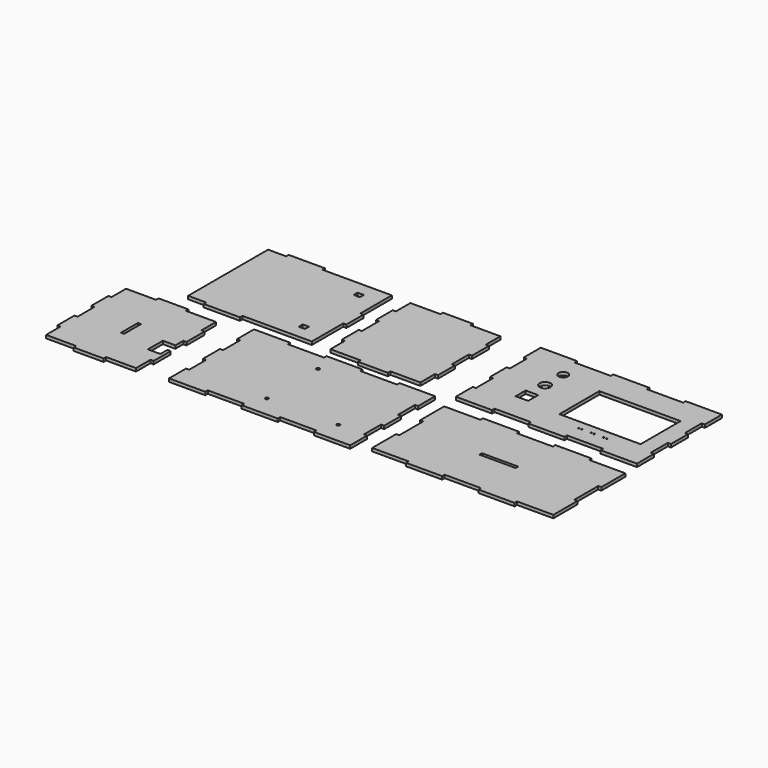
from build123d import *

# Parameters (mm, degrees)
F0_W      = 12.7
F0_H      = 12.7
F0_R      = 0.635
F0_W_2    = 82.55
F0_H_2    = 50.8
F0_R_2    = 4.7625
F1_DEPTH  = 3.175
F3_DEPTH  = 3.175
F5_DEPTH  = 3.175
F6_R      = 1.5875
F7_DEPTH  = 3.175
F8_W      = 6.35
F8_H      = 5.08
F9_DEPTH  = 3.175
F10_W     = 3.175
F10_H     = 21.59
F11_DEPTH = 3.175


with BuildPart() as f1:
    # F0 (on Top) → F1 (new body)
    with BuildSketch(Plane.XY):
        Polygon((0, 40.005), (0, 18.415), (-3.175, 18.415), (-3.175, -3.175), (33.655, -3.175), (33.655, 0), (70.485, 0), (70.485, -3.175), (107.315, -3.175), (107.315, 0), (144.145, 0), (144.145, -3.175), (180.975, -3.175), (180.975, 18.415), (177.8, 18.415), (177.8, 40.005), (180.975, 40.005), (180.975, 61.595), (177.8, 61.595), (177.8, 83.185), (180.975, 83.185), (180.975, 104.775), (144.145, 104.775), (144.145, 101.6), (107.315, 101.6), (107.315, 104.775), (70.485, 104.775), (70.485, 101.6), (33.655, 101.6), (33.655, 104.775), (-3.175, 104.775), (-3.175, 83.185), (0, 83.185), (0, 61.595), (-3.175, 61.595), (-3.175, 40.005), align=None)
        with Locations((39.8253654897, 33.447625649)):
            Rectangle(F0_W, F0_H, mode=Mode.SUBTRACT)
        with Locations((106.7751194119, 15.4237598181)):
            Circle(F0_R, mode=Mode.SUBTRACT)
        with BuildLine():
            ThreePointArc((110.5851194119, 15.4237598181), (109.9501194119, 14.7887598181), (109.3151194119, 15.4237598181))
            ThreePointArc((109.3151194119, 15.4237598181), (109.9501194119, 16.0587598181), (110.5851194119, 15.4237598181))
        make_face(mode=Mode.SUBTRACT)
        with BuildLine():
            ThreePointArc((118.8401194119, 15.4237598181), (119.4751194119, 16.0587598181), (120.1101194119, 15.4237598181))
            ThreePointArc((120.1101194119, 15.4237598181), (119.4751194119, 14.7887598181), (118.8401194119, 15.4237598181))
        make_face(mode=Mode.SUBTRACT)
        with BuildLine():
            ThreePointArc((123.2851194119, 15.4237598181), (122.6501194119, 14.7887598181), (122.0151194119, 15.4237598181))
            ThreePointArc((122.0151194119, 15.4237598181), (122.6501194119, 16.0587598181), (123.2851194119, 15.4237598181))
        make_face(mode=Mode.SUBTRACT)
        with BuildLine():
            ThreePointArc((131.5401194119, 15.4237598181), (132.1751194119, 16.0587598181), (132.8101194119, 15.4237598181))
            ThreePointArc((132.8101194119, 15.4237598181), (132.1751194119, 14.7887598181), (131.5401194119, 15.4237598181))
        make_face(mode=Mode.SUBTRACT)
        with BuildLine():
            ThreePointArc((134.7151194119, 15.4237598181), (135.3501194119, 16.0587598181), (135.9851194119, 15.4237598181))
            ThreePointArc((135.9851194119, 15.4237598181), (135.3501194119, 14.7887598181), (134.7151194119, 15.4237598181))
        make_face(mode=Mode.SUBTRACT)
        with Locations((121.0626194119, 50.1308102608)):
            Rectangle(F0_W_2, F0_H_2, mode=Mode.SUBTRACT)
        with BuildLine():
            ThreePointArc((39.8253654897, 62.1293686211), (43.7542275427, 60.5019806741), (45.3816154897, 56.5731186211))
            ThreePointArc((45.3816154897, 56.5731186211), (35.8965034368, 52.6442565681), (39.8253654897, 62.1293686211))
        make_face(mode=Mode.SUBTRACT)
        with Locations((39.8253654897, 79.6093419194)):
            Circle(F0_R_2, mode=Mode.SUBTRACT)
    extrude(amount=F1_DEPTH)


with BuildPart() as f3:
    # F2 (on Top) → F3 (new body)
    with BuildSketch(Plane.XY):
        Polygon((73.66, -18.7735741109), (36.83, -18.7735741109), (36.83, -21.9485741109), (0, -21.9485741109), (0, -52.4285741109), (3.175, -52.4285741109), (3.175, -82.9085741109), (0, -82.9085741109), (0, -113.3885741109), (36.83, -113.3885741109), (36.83, -116.5635741109), (73.66, -116.5635741109), (73.66, -113.3885741109), (110.49, -113.3885741109), (110.49, -116.5635741109), (147.32, -116.5635741109), (147.32, -113.3885741109), (184.15, -113.3885741109), (184.15, -82.9085741109), (180.975, -82.9085741109), (180.975, -52.4285741109), (184.15, -52.4285741109), (184.15, -21.9485741109), (147.32, -21.9485741109), (147.32, -18.7735741109), (110.49, -18.7735741109), (110.49, -21.9485741109), (73.66, -21.9485741109), align=None)
        Polygon((73.66, -69.2560741109), (73.66, -67.6685741109), (73.66, -66.0810741109), (110.49, -66.0810741109), (110.49, -69.2560741109), align=None, mode=Mode.SUBTRACT)
    extrude(amount=F3_DEPTH)


with BuildPart() as f5:
    # F4 (on Top) → F5 (new body)
    with BuildSketch(Plane.XY):
        Polygon((-41.0954638672, 64.77), (-41.0954638672, 86.36), (-44.2704638672, 86.36), (-44.2704638672, 104.775), (-74.7504638672, 104.775), (-74.7504638672, 107.95), (-105.2304638672, 107.95), (-105.2304638672, 104.775), (-135.7104638672, 104.775), (-135.7104638672, 86.36), (-138.8854638672, 86.36), (-138.8854638672, 64.77), (-135.7104638672, 64.77), (-135.7104638672, 43.18), (-138.8854638672, 43.18), (-138.8854638672, 21.59), (-135.7104638672, 21.59), (-135.7104638672, 3.175), (-105.2304638672, 3.175), (-105.2304638672, 0), (-74.7504638672, 0), (-74.7504638672, 3.175), (-44.2704638672, 3.175), (-44.2704638672, 21.59), (-41.0954638672, 21.59), (-41.0954638672, 43.18), (-44.2704638672, 43.18), (-44.2704638672, 64.77), align=None)
    extrude(amount=-F5_DEPTH)


with BuildPart() as f7:
    # F6 (on Top) → F7 (new body)
    with BuildSketch(Plane.XY):
        Polygon((-201.2327366591, -72.8297494721), (-201.2327366591, -94.4197494721), (-204.407736659, -94.4197494721), (-204.407736659, -116.0097494721), (-167.577736659, -116.0097494721), (-167.5777366591, -112.8347494721), (-130.7477366591, -112.8347494721), (-130.7477366591, -116.0097494721), (-93.9177366591, -116.0097494721), (-93.9177366591, -112.8347494721), (-57.0877366591, -112.8347494721), (-57.0877366591, -116.0097494721), (-20.2577366591, -116.0097494721), (-20.2577366591, -94.4197494721), (-23.432736659, -94.4197494721), (-23.432736659, -72.8297494721), (-20.2577366591, -72.8297494721), (-20.2577366591, -51.2397494721), (-23.432736659, -51.2397494721), (-23.432736659, -29.6497494721), (-20.2577366591, -29.6497494721), (-20.2577366591, -8.0597494721), (-56.462813171, -8.0597494721), (-56.462813171, -11.2347494721), (-93.9177366591, -11.2347494721), (-93.9177366591, -8.0597494721), (-130.7477366591, -8.0597494721), (-130.7477366591, -11.2347494721), (-167.5777366591, -11.2347494721), (-167.5777366591, -8.0597494721), (-204.4077366591, -8.0597494721), (-204.407736659, -29.6497494721), (-201.2327366591, -29.6497494721), (-201.2327366591, -51.2397494721), (-204.407736659, -51.2397494721), (-204.407736659, -72.8297494721), align=None)
        with Locations((-122.2805968447, -94.4197494721)):
            Circle(F6_R, mode=Mode.SUBTRACT)
        with Locations((-49.671313171, -94.2920787486)):
            Circle(F6_R, mode=Mode.SUBTRACT)
        with Locations((-122.2805968447, -29.4197494721)):
            Circle(F6_R, mode=Mode.SUBTRACT)
    extrude(amount=-F7_DEPTH)


with BuildPart() as f9:
    # F8 (on Top) → F9 (new body)
    with BuildSketch(Plane.XY):
        Polygon((-262.8389675861, 105.9029261678), (-281.2539675861, 105.9029261678), (-281.2539675861, 4.3029261678), (-262.8389675861, 4.3029261678), (-262.8389675861, 1.1279261678), (-226.0089675861, 1.1279261678), (-226.0089675861, 4.3029261678), (-189.1789675861, 4.3029261678), (-155.5239675861, 4.3029261678), (-155.5239675861, 22.7179261678), (-155.5239675861, 44.3079261678), (-152.3489675861, 44.3079261678), (-152.3489675861, 65.8979261678), (-155.5239675861, 65.8979261678), (-155.5239675861, 87.4879261678), (-155.5239675861, 105.9029261678), (-189.1789675861, 105.9029261678), (-226.0089675861, 105.9029261678), (-226.0089675861, 109.0779261678), (-262.8389675861, 109.0779261678), align=None)
        with Locations((-176.3971990824, 20.1779261678)):
            Rectangle(F8_W, F8_H, mode=Mode.SUBTRACT)
        with Locations((-176.3971990824, 90.0279261678)):
            Rectangle(F8_W, F8_H, mode=Mode.SUBTRACT)
    extrude(amount=-F9_DEPTH)


with BuildPart() as f11:
    # F10 (on Top) → F11 (new body)
    with BuildSketch(Plane.XY):
        Polygon((-232.7208047009, -58.4361536193), (-232.7208047009, -35.3960193419), (-235.8958047009, -35.3960193419), (-235.8958047009, -16.9810193419), (-266.3758047009, -16.9810193419), (-266.3758047009, -13.8060193419), (-296.8558047009, -13.8060193419), (-296.8558047009, -16.9810193419), (-327.3358047009, -16.9810193419), (-327.3358047009, -35.3960193419), (-330.5108047009, -35.3960193419), (-330.5108047009, -56.9860193419), (-327.3358047009, -56.9860193419), (-327.3358047009, -78.5760193419), (-330.5108047009, -78.5760193419), (-330.5108047009, -100.1660193419), (-327.3358047009, -100.1660193419), (-327.3358047009, -118.5810193419), (-296.8558047009, -118.5810193419), (-296.8558047009, -121.7560193419), (-266.3758047009, -121.7560193419), (-266.3758047009, -118.5810193419), (-235.8958047009, -118.5810193419), (-235.8958047009, -100.1660193419), (-232.7208047009, -100.1660193419), (-232.7208047009, -78.5760193419), (-235.9958801746, -78.5760193419), (-235.9958801746, -81.7510193419), (-235.9958801746, -87.5560864806), (-248.6958801746, -87.5560864806), (-248.6958801746, -68.5060864806), (-246.5753399038, -68.5060864806), (-235.9958801746, -68.5060864806), (-235.9958801746, -58.4361536193), align=None)
        with Locations((-281.6158047009, -67.7810193419)):
            Rectangle(F10_W, F10_H, mode=Mode.SUBTRACT)
    extrude(amount=-F11_DEPTH)


solid = Compound([f1.part, f3.part, f5.part, f7.part, f9.part, f11.part])
